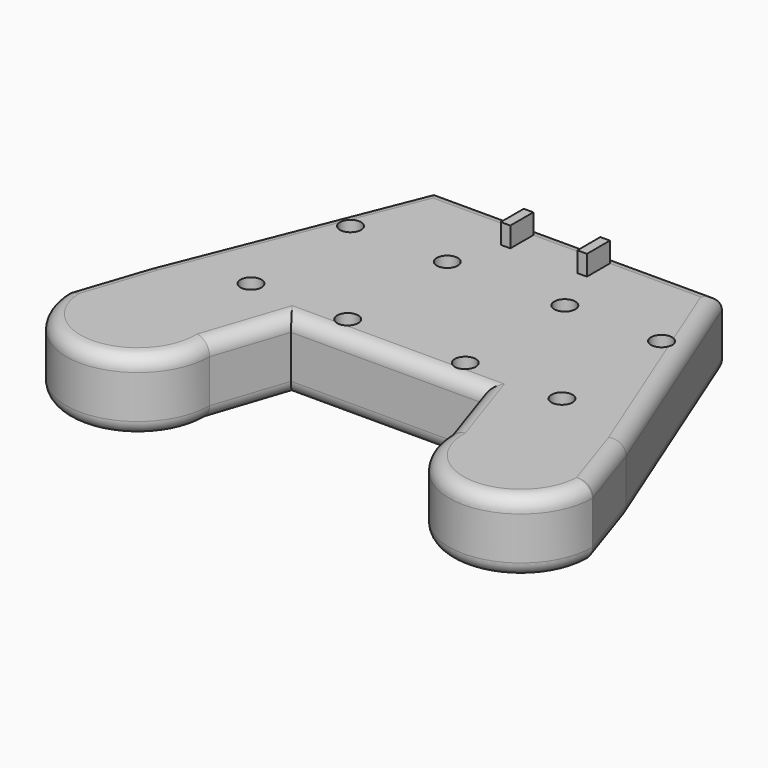
from build123d import *

# Parameters (mm, degrees)
PAD_DEPTH       = 15
FILLET_R        = 3
SKETCH001_R     = 2.2
POCKET_DEPTH    = 7
SKETCH002_W     = 2
SKETCH002_H     = 6
PAD001_DEPTH    = 4.2
SKETCH003_W     = 16
SKETCH003_H     = 1.8
POCKET001_DEPTH = 15


with BuildPart() as part:
    # Sketch → Pad (new body)
    with BuildSketch(Plane.XY):
        with BuildLine():
            Line((80, 50), (20, 50))
            Line((0, 0), (20, 50))
            Line((0, 0), (-5, -15))
            ThreePointArc((-5, -15), (10.000003, -30), (25, -14.999993))
            Line((25, -14.999993), (30, 0))
            Line((30, 0), (70, 0))
            Line((70, 0), (75, -15))
            ThreePointArc((75, -15), (90, -30), (105, -15))
            Line((100, 0), (105, -15))
            Line((80, 50), (100, 0))
        make_face()
    extrude(amount=PAD_DEPTH)

    # Fillet
    fillet_edges = [part.edges().sort_by_distance(p)[0] for p in [
        (50, 0, 15),
        (27.5, -7.499997, 15),
        (50, 0, 0),
        (27.5, -7.499997, 0),
        (10.000003, -30, 0),
        (10.000003, -30, 15),
        (72.5, -7.5, 0),
        (72.5, -7.5, 15),
        (90, -30, 15),
        (90, -30, 0),
        (102.5, -7.5, 15),
        (90, 25, 15),
        (50, 50, 15),
        (10, 25, 15),
        (-2.5, -7.5, 15),
        (102.5, -7.5, 0),
        (90, 25, 0),
        (50, 50, 0),
        (10, 25, 0),
        (-2.5, -7.5, 0),
    ]]
    fillet(fillet_edges, radius=FILLET_R)

    # Sketch001 (on Face11 of Fillet) → Pocket (cut)
    with BuildSketch(Plane.XY.offset(15)):
        with Locations((17.72, 30.88)):
            Circle(SKETCH001_R)
        with Locations((37.92, 30.88)):
            Circle(SKETCH001_R)
        with Locations((17.72, 4.88)):
            Circle(SKETCH001_R)
        with Locations((37.92, 4.88)):
            Circle(SKETCH001_R)
        with Locations((62.52, 30.83)):
            Circle(SKETCH001_R)
        with Locations((82.72, 30.83)):
            Circle(SKETCH001_R)
        with Locations((62.52, 4.83)):
            Circle(SKETCH001_R)
        with Locations((82.72, 4.83)):
            Circle(SKETCH001_R)
    extrude(amount=-POCKET_DEPTH, mode=Mode.SUBTRACT)

    # Sketch002 (on Face11 of Pocket) → Pad001 (join)
    with BuildSketch(Plane.XY.offset(15)):
        with Locations((42, 44)):
            Rectangle(SKETCH002_W, SKETCH002_H)
        with Locations((58, 44)):
            Rectangle(SKETCH002_W, SKETCH002_H)
    extrude(amount=PAD001_DEPTH)

    # Sketch003 (on Face29 of Pad001) → Pocket001 (cut)
    with BuildSketch(Plane(origin=(41, 0, 0), x_dir=(0, -1, 0), z_dir=(-1, 0, 0))):
        with Locations((50, 17.3)):
            Rectangle(SKETCH003_W, SKETCH003_H)
    extrude(amount=-POCKET001_DEPTH, mode=Mode.SUBTRACT)


solid = part.part
